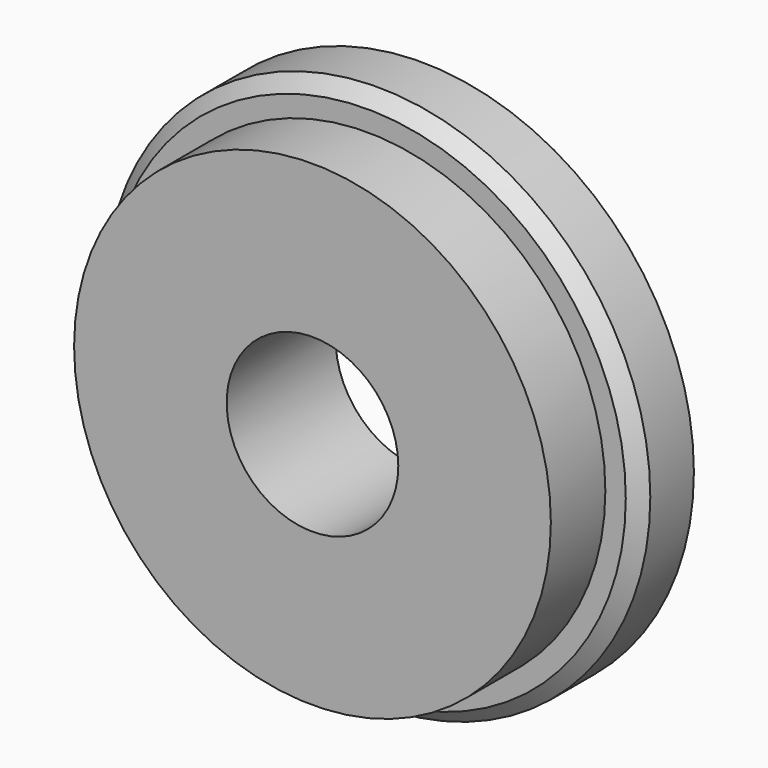
from build123d import *

# Parameters (mm, degrees)
F0_R     = 25.4
F1_DEPTH = 6.35
F2_R     = 22.225
F3_DEPTH = 6.35
F4_R     = 8
F5_DEPTH = 12.701
F6_SIZE  = 1.27


with BuildPart() as f1:
    # F0 (on Front) → F1 (new body)
    with BuildSketch(Plane.XZ):
        Circle(F0_R)
    extrude(amount=F1_DEPTH)

    # F2 (on face) → F3 (join)
    with BuildSketch(Plane.XZ.offset(6.35)):
        Circle(F2_R)
    extrude(amount=F3_DEPTH)

    # F4 (on Front) → F5 (cut, through all)
    with BuildSketch(Plane.XZ):
        Circle(F4_R)
    extrude(amount=F5_DEPTH, mode=Mode.SUBTRACT)

    # F6
    f6_edges = [f1.edges().sort_by_distance(p)[0] for p in [
        (-25.4, -6.35, 0),
    ]]
    chamfer(f6_edges, length=F6_SIZE)


solid = f1.part
